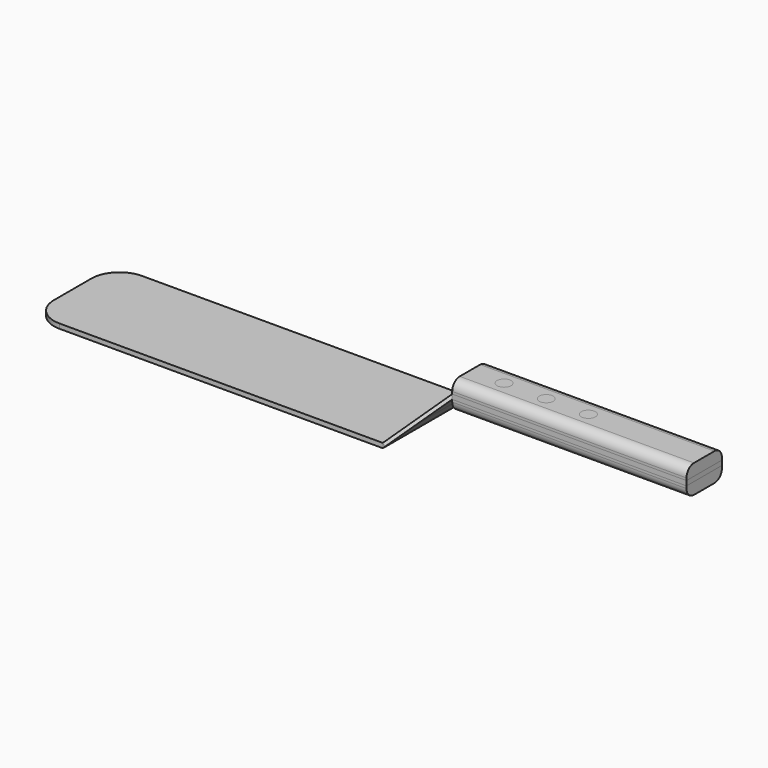
from build123d import *

# Parameters (mm, degrees)
F0_W      = 190.5
F0_H      = 55.88
F1_DEPTH  = 2.54
F2_W      = 55.88
F2_H      = 2.54
F3_DEPTH  = 12.7
F4_W      = 12.7
F4_H      = 55.88
F5_DEPTH  = 12.7
F6_W      = 55.88
F6_H      = 2.5481501573
F7_DEPTH  = 12.7
F8_W      = 12.7
F8_H      = 55.88
F9_DEPTH  = 12.7
F10_SIZE  = 12.67714
F12_DEPTH = 25.4
F14_DEPTH = 25.4
F15_W     = 24.0098635365
F15_H     = 2.5481501573
F16_DEPTH = 127
F17_W     = 127
F17_H     = 24.0098635365
F18_DEPTH = 6.35
F19_W     = 127
F19_H     = 24.0098635365
F20_DEPTH = 6.35
F21_R     = 15.24
F22_R     = 5.08
F22_2_R   = 5.08
F23_R     = 3.81
F24_DEPTH = 0.00254


with BuildPart() as f1:
    # F0 (on Top) → F1 (new body)
    with BuildSketch(Plane.XY):
        with Locations((19.2136056721, 5.2621446662)):
            Rectangle(F0_W, F0_H)
    extrude(amount=F1_DEPTH)

    # F21
    f21_edges = [f1.edges().sort_by_distance(p)[0] for p in [
        (-76.036394, 33.202145, 1.27),
        (-76.036394, -22.677855, 1.27),
    ]]
    fillet(f21_edges, radius=F21_R)


with BuildPart() as f3:
    # F2 (on face) → F3 (new body)
    with BuildSketch(Plane.YZ.offset(114.4636056721)):
        with Locations((5.2621446662, 1.27)):
            Rectangle(F2_W, F2_H)
    extrude(amount=F3_DEPTH)

    # F4 (on face) → F5 (join)
    with BuildSketch(Plane.XY.offset(2.54)):
        with Locations((120.8136056721, 5.2621446662)):
            Rectangle(F4_W, F4_H)
    extrude(amount=F5_DEPTH)

    # F6 (on face) → F7 (join)
    with BuildSketch(Plane.YZ.offset(127.1636056721)):
        with Locations((5.2621446662, 13.9659249213)):
            Rectangle(F6_W, F6_H)
    extrude(amount=F7_DEPTH)

    # F8 (on face) → F9 (join)
    with BuildSketch(Plane.XY.offset(15.24)):
        with Locations((133.5136056721, 5.2621446662)):
            Rectangle(F8_W, F8_H)
    extrude(amount=F9_DEPTH)

    # F10
    f10_edges = [f3.edges().sort_by_distance(p)[0] for p in [
        (127.163606, 5.262145, 27.94),
        (114.463606, 5.262145, 15.24),
        (139.863606, 5.262145, 12.69185),
        (127.163606, 5.262145, 0),
    ]]
    chamfer(f10_edges, length=F10_SIZE)

    # F11 (on face) → F12 (cut)
    with BuildSketch(Plane(origin=(55.9503728361, 0, -55.9503728361), x_dir=(0.7071067812, 0, 0.7071067812), z_dir=(-0.7071067812, 0, 0.7071067812))):
        Polygon((118.6389030173, 33.2021446662), (82.9373598099, 33.2021446662), (118.6389030173, 16.6084691882), align=None)
        Polygon((118.6389030173, -6.5928315744), (82.794778049, -22.6778553338), (118.6389030173, -22.6778553338), align=None)
    extrude(amount=-F12_DEPTH, mode=Mode.SUBTRACT)

    # F13 (on face) → F14 (cut)
    with BuildSketch(Plane(origin=(55.9503728361, 0, -55.9503728361), x_dir=(0.7071067812, 0, 0.7071067812), z_dir=(-0.7071067812, 0, 0.7071067812))):
        Polygon((116.1913573742, 21.231610328), (118.6389030173, 16.6084691882), (121.2114244699, 14.9507913738), (122.3802044988, 27.3574646562), (118.6389030173, 36.1816585064), align=None)
        Polygon((120.5083355308, -7.4875173159), (118.6389030173, -6.5928315744), (116.9947695874, -8.2805254063), (116.0452738404, -18.3594822884), (117.9651161949, -25.1031260163), (120.5083355308, -19.7891071439), align=None)
    extrude(amount=-F14_DEPTH, mode=Mode.SUBTRACT)


with BuildPart() as f16:
    # F15 (on face) → F16 (new body)
    with BuildSketch(Plane.YZ.offset(139.8636056721)):
        with Locations((4.60353742, 26.6430649213)):
            Rectangle(F15_W, F15_H)
    extrude(amount=F16_DEPTH)


with BuildPart() as f18:
    # F17 (on face) → F18 (new body)
    with BuildSketch(Plane.XY.offset(27.91714)):
        with Locations((203.3636056721, 4.60353742)):
            Rectangle(F17_W, F17_H)
    extrude(amount=F18_DEPTH)

    # F22
    f22_edges = [f18.edges().sort_by_distance(p)[0] for p in [
        (203.363606, -7.401394, 34.26714),
        (203.363606, 16.608469, 34.26714),
    ]]
    fillet(f22_edges, radius=F22_R)


with BuildPart() as f20:
    # F19 (on face) → F20 (new body)
    with BuildSketch(Plane(origin=(0, 0, 25.3689898427), x_dir=(1, 0, 0), z_dir=(0, 0, -1))):
        with Locations((203.3636056721, -4.60353742)):
            Rectangle(F19_W, F19_H)
    extrude(amount=F20_DEPTH)

    # F22#2
    f22_2_edges = [f20.edges().sort_by_distance(p)[0] for p in [
        (203.363606, -7.401394, 19.01899),
        (203.363606, 16.608469, 19.01899),
    ]]
    fillet(f22_2_edges, radius=F22_2_R)


with BuildPart() as f24:
    # F23 (on face) → F24 (new body)
    with BuildSketch(Plane.XY.offset(34.26714)):
        with Locations((158.3697497845, 4.60353742)):
            Circle(F23_R)
    extrude(amount=F24_DEPTH)


with BuildPart() as f24b:
    # F23 (on face) → F24, piece 2 (new body)
    with BuildSketch(Plane.XY.offset(34.26714)):
        with Locations((181.2297497845, 4.60353742)):
            Circle(F23_R)
    extrude(amount=F24_DEPTH)


with BuildPart() as f24c:
    # F23 (on face) → F24, piece 3 (new body)
    with BuildSketch(Plane.XY.offset(34.26714)):
        with Locations((204.0897497845, 4.60353742)):
            Circle(F23_R)
    extrude(amount=F24_DEPTH)


solid = Compound([f1.part, f3.part, f16.part, f18.part, f20.part, f24.part, f24b.part, f24c.part])
